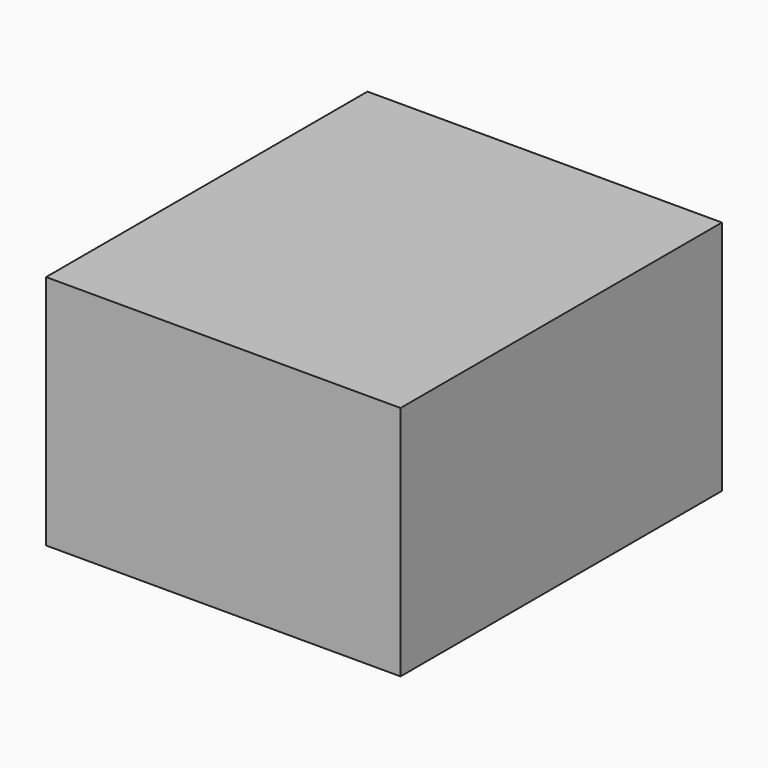
from build123d import *

# Parameters (mm, degrees)
SKETCH_W  = 15
SKETCH_H  = 17
PAD_DEPTH = 10


with BuildPart() as part:
    # Sketch → Pad (new body)
    with BuildSketch(Plane.XY):
        Rectangle(SKETCH_W, SKETCH_H)
    extrude(amount=PAD_DEPTH)


solid = part.part
